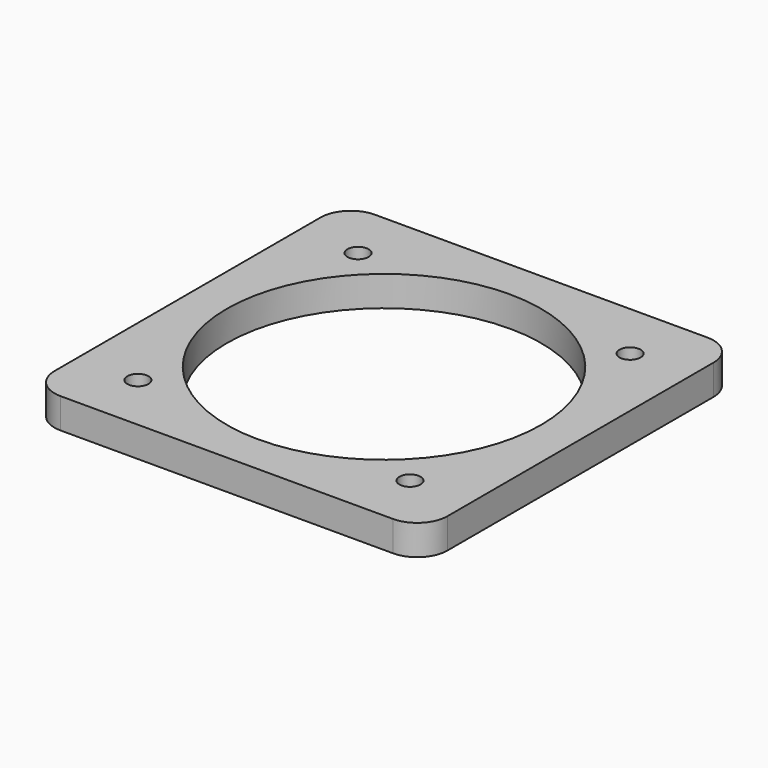
from build123d import *

# Parameters (mm, degrees)
SKETCH_W      = 65
SKETCH_H      = 65
PAD_DEPTH     = 5
SKETCH001_R   = 1.75
SKETCH001_R_2 = 26
POCKET_DEPTH  = 5
FILLET_R      = 5


with BuildPart() as part:
    # Sketch → Pad (new body)
    with BuildSketch(Plane.XY):
        Rectangle(SKETCH_W, SKETCH_H)
    extrude(amount=PAD_DEPTH)

    # Sketch001 → Pocket (cut)
    with BuildSketch(Plane.XY):
        with Locations((-22.5, 22.754121)):
            Circle(SKETCH001_R)
        with Locations((22.5, 22.754121)):
            Circle(SKETCH001_R)
        with Locations((-22.5, -22.754121)):
            Circle(SKETCH001_R)
        with Locations((22.5, -22.754121)):
            Circle(SKETCH001_R)
        Circle(SKETCH001_R_2)
    extrude(amount=POCKET_DEPTH, mode=Mode.SUBTRACT)

    # Fillet
    fillet_edges = [part.edges().sort_by_distance(p)[0] for p in [
        (-32.5, -32.5, 2.5),
        (32.5, -32.5, 2.5),
        (32.5, 32.5, 2.5),
        (-32.5, 32.5, 2.5),
    ]]
    fillet(fillet_edges, radius=FILLET_R)


solid = part.part
